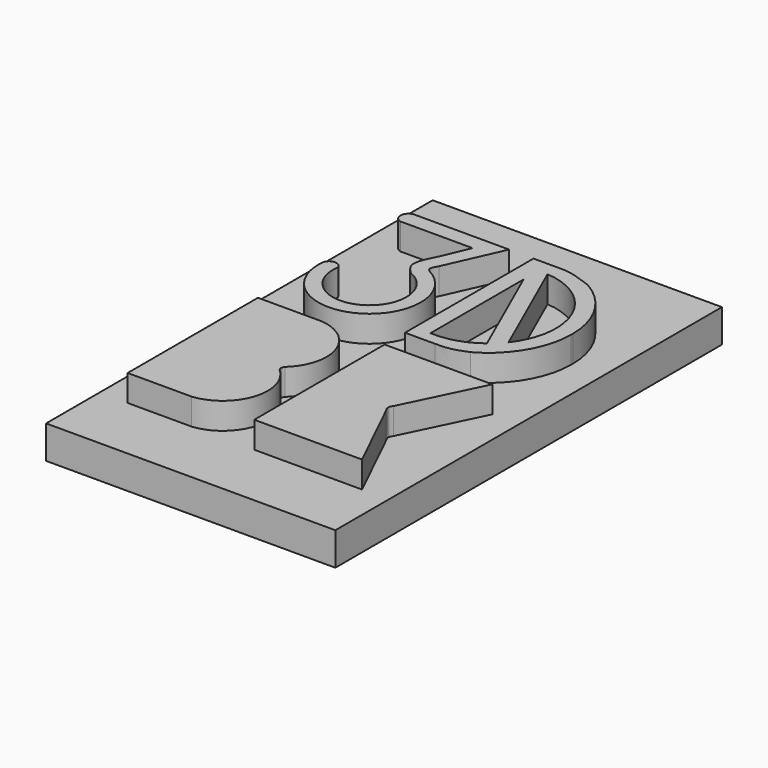
from build123d import *

# Parameters (mm, degrees)
F1_W     = 55.6107703596
F1_H     = 92.8997322917
F2_DEPTH = 6.35
F3_DEPTH = 5.08


with BuildPart() as f2:
    # F1 (on Top) → F2 (new body)
    with BuildSketch(Plane.XY):
        with Locations((-0.0001015142, 0.0001341105)):
            Rectangle(F1_W, F1_H)
    extrude(amount=-F2_DEPTH)

    # F0 (on Top) → F3 (join)
    with BuildSketch(Plane.XY):
        with BuildLine():
            Line((1.9535701722, 33.4806852043), (1.9535701722, 2.6171170175))
            Line((1.9535701722, 2.6171170175), (7.6673883013, 2.6171170175))
            add(Edge.make_bspline(
                [(13.5640528841, 3.8033656441), (12.5585792201, 3.4051600509), (10.5947152477, 2.6273956539), (8.6274422547, 2.6204880265), (7.6673883013, 2.6171170175)],
                knots=[0, 0, 0, 0, 0.5119874279, 1, 1, 1, 1], degree=3))
            ThreePointArc((13.5640528841, 3.8033656441), (19.5771167094, 9.6257290209), (21.8482203782, 17.6817168551))
            Line((21.8482203782, 17.6817168551), (21.8482203782, 18.0489011109))
            ThreePointArc((21.8482203782, 18.0489011109), (19.5771167094, 26.1048889451), (13.5640528841, 31.9272523219))
            add(Edge.make_bspline(
                [(13.5640528841, 31.9272523219), (12.0188625137, 32.4806988664), (9.5071250594, 33.3803371514), (8.1786150797, 33.4528004476), (7.6673883013, 33.4806852043)],
                knots=[0, 0, 0, 0, 0.6151878524, 1, 1, 1, 1], degree=3))
            Line((7.6673883013, 33.4806852043), (1.9535701722, 33.4806852043))
        make_face()
        with BuildLine():
            ThreePointArc((13.7255926495, 7.5781230036), (9.6198125415, 5.4448354943), (5.0269701927, 4.8843490524))
            Line((5.0269701927, 4.8843490524), (5.0269701927, 27.2558980547))
            Line((5.0269701927, 27.2558980547), (13.7255926495, 7.5781230036))
        make_face(mode=Mode.SUBTRACT)
        with BuildLine():
            ThreePointArc((6.7811124511, 30.8286115181), (17.6657420253, 23.1223286699), (16.0391214303, 9.8854082672))
            Line((16.0391214303, 9.8854082672), (6.7811124511, 30.8286115181))
        make_face(mode=Mode.SUBTRACT)
        with BuildLine():
            Line((-7.5453622267, 22.6989928633), (-2.7351737954, 33.4806852043))
            Line((-2.7351737954, 33.4806852043), (-21.1572051048, 33.4806852043))
            ThreePointArc((-21.1572051048, 33.4806852043), (-22.3890896886, 31.9530339911), (-21.1572051048, 30.425382778))
            Line((-21.1572051048, 30.425382778), (-7.2931135073, 30.425382778))
            Line((-7.2931135073, 30.425382778), (-9.4495294616, 25.3879800439))
            add(Edge.make_bspline(
                [(-9.4495294616, 25.3879800439), (-10.3302159731, 23.6726618568), (-11.8808970013, 20.6523914937), (-10.1830913379, 19.0052173822), (-9.4495294616, 18.2935316116)],
                knots=[0, 0, 0, 0, 0.5679353107, 1, 1, 1, 1], degree=3))
            ThreePointArc((-9.4495294616, 18.2935316116), (-8.744805336, 5.5966861339), (-19.1914085299, 12.8475483507))
            ThreePointArc((-19.1914085299, 12.8475483507), (-20.5873309935, 13.9352987723), (-21.9832534571, 12.8475483507))
            ThreePointArc((-21.9832534571, 12.8475483507), (-7.5716745464, 3.0830422585), (-7.6246123494, 20.4909825018))
            add(Edge.make_bspline(
                [(-7.5453622267, 22.6989928633), (-7.8757345138, 22.1285959519), (-8.4306078493, 21.1705917574), (-7.8693930702, 20.681447967), (-7.6246123494, 20.4909825018)],
                knots=[0, 0, 0, 0, 0.5706142153, 0.9583691649, 0.9583691649, 0.9583691649, 0.9583691649], degree=3))
        make_face()
        with BuildLine():
            Line((1.9535701722, -33.6182080209), (21.8482203782, -33.6182080209))
            Line((21.8482203782, -33.6182080209), (22.670282051, -33.6182080209))
            Line((22.670282051, -33.6182080209), (15.4876355082, -18.8196848612))
            add(Edge.make_bspline(
                [(15.4876355082, -18.8196848612), (15.371168109, -18.6560732739), (15.159509665, -18.3587387901), (15.1679139181, -18.0863425739), (15.171693638, -17.9638353875)],
                knots=[0, 0, 0, 0, 0.550261057, 1, 1, 1, 1], degree=3))
            add(Edge.make_bspline(
                [(15.4876355082, -17.1079859138), (15.371168109, -17.2715975011), (15.159509665, -17.5689319849), (15.1679139181, -17.8413282011), (15.171693638, -17.9638353875)],
                knots=[0, 0, 0, 0, 0.550261057, 1, 1, 1, 1], degree=3))
            Line((15.4876355082, -17.1079859138), (22.670282051, -2.3094627541))
            Line((22.670282051, -2.3094627541), (1.9535701722, -2.3094627541))
            Line((1.9535701722, -2.3094627541), (1.9535701722, -33.6182080209))
        make_face()
        with BuildLine():
            Line((-22.3890896886, -2.3094627541), (-22.3890896886, -33.6182080209))
            Line((-22.3890896886, -33.6182080209), (-10.0687015802, -33.6182080209))
            ThreePointArc((-10.0687015802, -33.6182080209), (-2.7489802993, -27.706179837), (-5.1699676551, -18.6139184516))
            add(Edge.make_bspline(
                [(-5.1699676551, -18.6139184516), (-5.2577137292, -18.4897791328), (-5.4173213156, -18.2639732804), (-5.4122223799, -18.0570156997), (-5.4099266417, -17.9638353875)],
                knots=[0, 0, 0, 0, 0.5497612996, 1, 1, 1, 1], degree=3))
            add(Edge.make_bspline(
                [(-5.1699676551, -17.3137523234), (-5.2577137292, -17.4378916422), (-5.4173213156, -17.6636974946), (-5.4122223799, -17.8706550753), (-5.4099266417, -17.9638353875)],
                knots=[0, 0, 0, 0, 0.5497612996, 1, 1, 1, 1], degree=3))
            ThreePointArc((-5.1699676551, -17.3137523234), (-2.7489802993, -8.221490938), (-10.0687015802, -2.3094627541))
            Line((-10.0687015802, -2.3094627541), (-22.3890896886, -2.3094627541))
        make_face()
    extrude(amount=F3_DEPTH)


solid = f2.part
